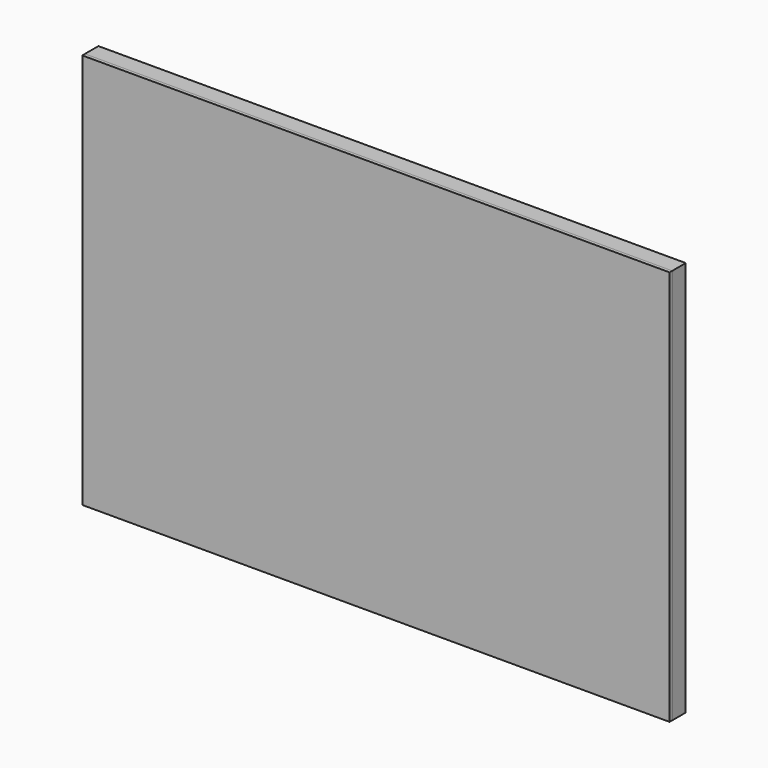
from build123d import *

# Parameters (mm, degrees)
F0_W     = 885.825
F0_H     = 596.9
F0_W_2   = 835.025
F0_H_2   = 546.1
F1_DEPTH = 25.4
F3_DEPTH = 6.35
F4_W     = 885.825
F4_H     = 596.9
F5_DEPTH = 5.08
F7_DEPTH = 5.08


with BuildPart() as f1:
    # F0 (on Front) → F1 (new body)
    with BuildSketch(Plane.XZ):
        with Locations((442.9125, 298.45)):
            Rectangle(F0_W, F0_H)
        with Locations((442.9125, 298.45)):
            Rectangle(F0_W_2, F0_H_2, mode=Mode.SUBTRACT)
    extrude(amount=F1_DEPTH)


with BuildPart() as f3:
    # F2 (on face) → F3 (new body)
    with BuildSketch(Plane.XZ.offset(25.4)):
        Polygon((25.4, 95.25), (25.4, 25.4), (95.25, 25.4), align=None)
    extrude(amount=-F3_DEPTH)


with BuildPart() as f5:
    # F4 (on face) → F5 (new body)
    with BuildSketch(Plane.XZ.offset(25.4)):
        with Locations((442.9125, 298.45)):
            Rectangle(F4_W, F4_H)
    extrude(amount=F5_DEPTH)


with BuildPart() as f7:
    # F6 (on face) → F7 (new body)
    with BuildSketch(Plane(origin=(0, -19.05, 0), x_dir=(-1, 0, 0), z_dir=(0, 1, 0))):
        Polygon((-38.1, 25.4), (-25.4, 25.4), (-25.4, 567.502618), (-859.708309, 567.502618), (-859.708309, 25.4), align=None)
        Polygon((-38.1, 554.802618), (-38.1, 42.026595), (-844.511604, 38.099849), (-847.00846, 550.863714), align=None, mode=Mode.SUBTRACT)
    extrude(amount=F7_DEPTH)


solid = Compound([f1.part, f3.part, f5.part, f7.part])
